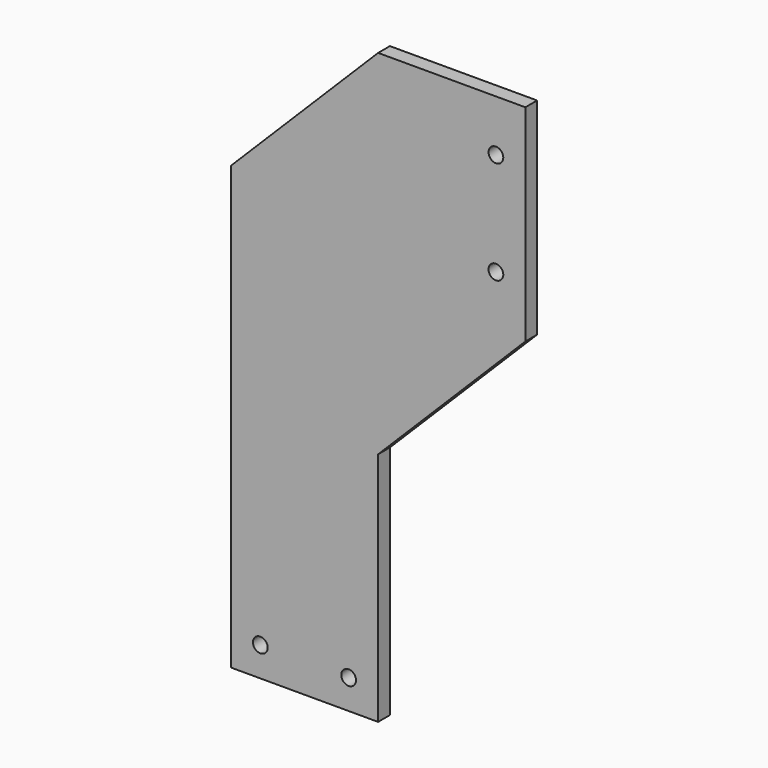
from build123d import *

# Parameters (mm, degrees)
F0_W     = 50
F0_H     = 70
F1_DEPTH = 5
F3_D     = 5
F3_DEPTH = 40


with BuildPart() as f1:
    # F0 (on Front) → F1 (new body)
    with BuildSketch(Plane.XZ):
        with Locations((25, 65)):
            Rectangle(F0_W, F0_H)
        Polygon((0, -20), (0, 30), (-50, 30), (-50, -100), (0, -100), align=None)
        Polygon((0, 30), (0, 100), (-50, 50), (-50, 30), align=None)
        Polygon((0, -20), (50, 30), (0, 30), align=None)
    extrude(amount=F1_DEPTH)

    # F3
    with Locations(Plane.XZ.offset(5)):
        with Locations((40, 82.5), (40, 47.5), (-10, -90), (-40, -90)):
            Hole(F3_D / 2, depth=F3_DEPTH)


solid = f1.part
